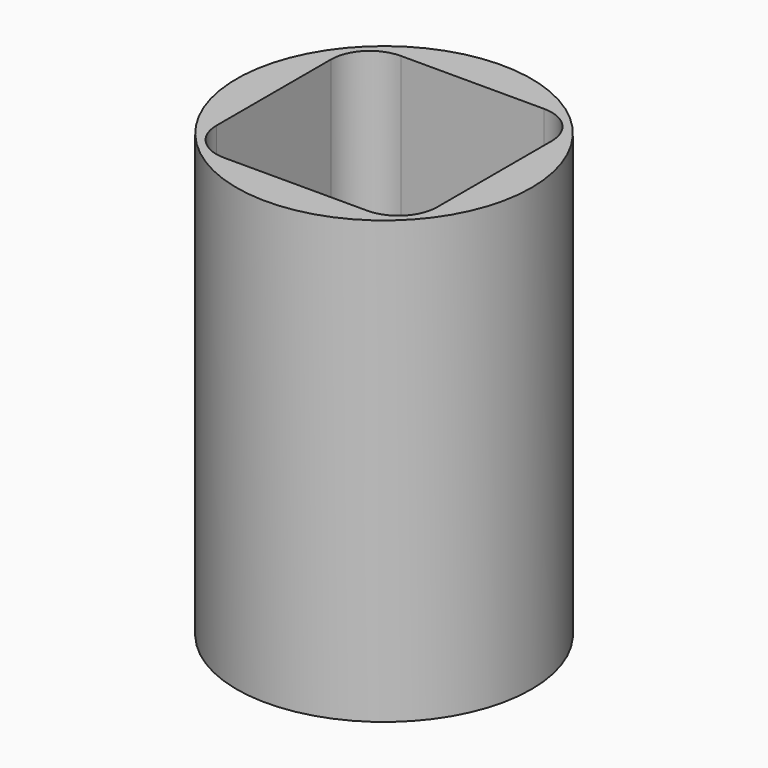
from build123d import *

# Parameters (mm, degrees)
F0_R     = 2.1209
F1_DEPTH = 6.35
F3_DEPTH = 25.4


with BuildPart() as f1:
    # F0 (on Top) → F1 (new body)
    with BuildSketch(Plane.XY):
        Circle(F0_R)
    extrude(amount=F1_DEPTH)

    # F2 (on Top) → F3 (cut)
    with BuildSketch(Plane.XY):
        with BuildLine():
            Line((1.0287, 1.5875), (-1.0287, 1.5875))
            ThreePointArc((-1.0287, 1.5875), (-1.423831, 1.423831), (-1.5875, 1.0287))
            Line((-1.5875, 1.0287), (-1.5875, -1.0287))
            ThreePointArc((-1.5875, -1.0287), (-1.423831, -1.423831), (-1.0287, -1.5875))
            Line((-1.0287, -1.5875), (1.0287, -1.5875))
            ThreePointArc((1.0287, -1.5875), (1.423831, -1.423831), (1.5875, -1.0287))
            Line((1.5875, -1.0287), (1.5875, 1.0287))
            ThreePointArc((1.5875, 1.0287), (1.423831, 1.423831), (1.0287, 1.5875))
        make_face()
    extrude(amount=F3_DEPTH, mode=Mode.SUBTRACT)


solid = f1.part
